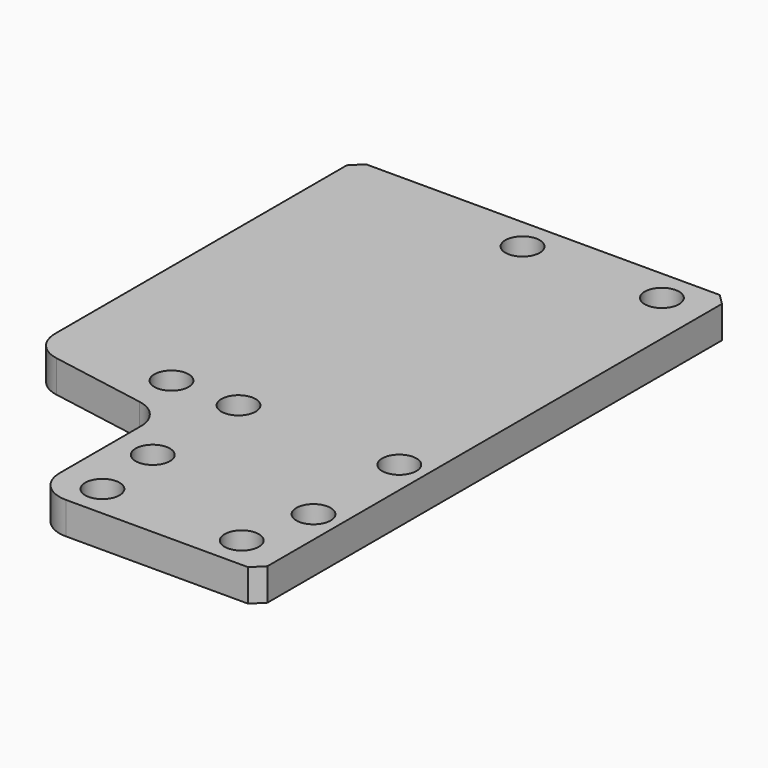
from build123d import *

# Parameters (mm, degrees)
SKETCH081_R     = 1.6
PAD046_DEPTH    = 3
CHAMFER026_SIZE = 1
FILLET021_R     = 3


with BuildPart() as part:
    # Sketch081 → Pad046 (new body)
    with BuildSketch(Plane.XY):
        Polygon((10, 55), (-25, 55), (-25, 17.468578), (-11, 15), (-11, 0), (10, 0), align=None)
        with Locations((-7.5, 19.5)):
            Circle(SKETCH081_R, mode=Mode.SUBTRACT)
        with Locations((7.5, 19.5)):
            Circle(SKETCH081_R, mode=Mode.SUBTRACT)
        with Locations((7.5, 9.5)):
            Circle(SKETCH081_R, mode=Mode.SUBTRACT)
        with Locations((-7.5, 9.5)):
            Circle(SKETCH081_R, mode=Mode.SUBTRACT)
        with Locations((-7, 52)):
            Circle(SKETCH081_R, mode=Mode.SUBTRACT)
        with Locations((6, 52)):
            Circle(SKETCH081_R, mode=Mode.SUBTRACT)
        with Locations((-7, 3)):
            Circle(SKETCH081_R, mode=Mode.SUBTRACT)
        with Locations((6, 3)):
            Circle(SKETCH081_R, mode=Mode.SUBTRACT)
        with Locations((-13.75, 19.5)):
            Circle(SKETCH081_R, mode=Mode.SUBTRACT)
    extrude(amount=PAD046_DEPTH)

    # Chamfer026
    chamfer026_edges = [part.edges().sort_by_distance(p)[0] for p in [
        (10, 0, 1.5),
        (10, 55, 1.5),
        (-25, 55, 1.5),
    ]]
    chamfer(chamfer026_edges, length=CHAMFER026_SIZE)

    # Fillet021
    fillet021_edges = [part.edges().sort_by_distance(p)[0] for p in [
        (-25, 17.468578, 1.5),
        (-11, 15, 1.5),
        (-11, 0, 1.5),
    ]]
    fillet(fillet021_edges, radius=FILLET021_R)


with BuildPart() as part_1:
    # Body038 placement: moved
    add(part.part.moved(Location((-2e-06, -1.5e-05, 10.499998))))


solid = part_1.part
